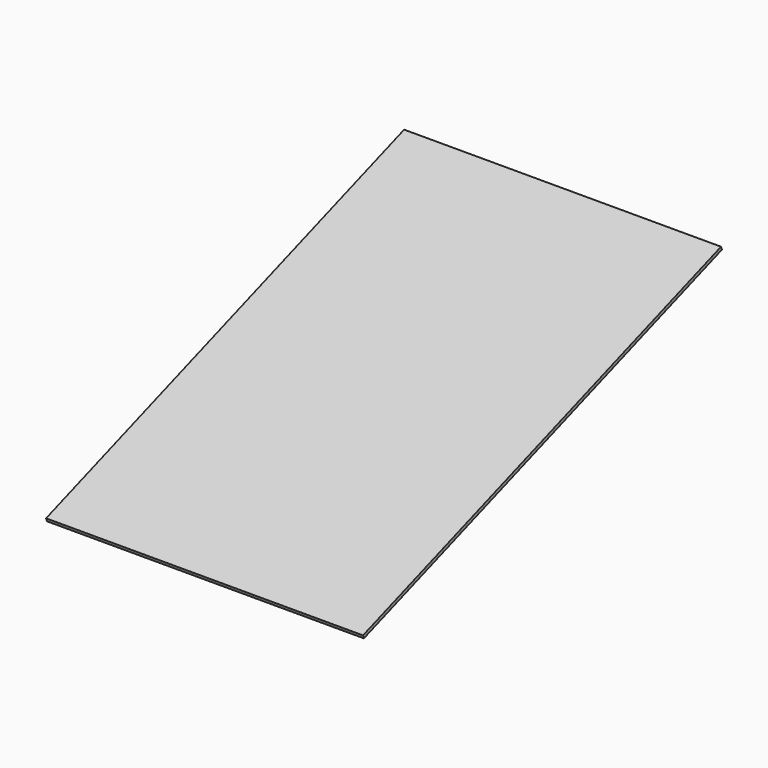
from build123d import *

# Parameters (mm, degrees)
F0_W     = 609.6
F0_H     = 914.4
F1_DEPTH = 6.35
F2_ANGLE = 19.7


with BuildPart() as f1:
    # F0 (on Top) → F1 (new body)
    with BuildSketch(Plane.XY):
        with Locations((0, 457.2)):
            Rectangle(F0_W, F0_H)
    extrude(amount=F1_DEPTH)


with BuildPart() as f1_1:
    # F2: moved
    add(f1.part.rotate(Axis((0, 0, 0), (1, 0, 0)), F2_ANGLE))


solid = f1_1.part
